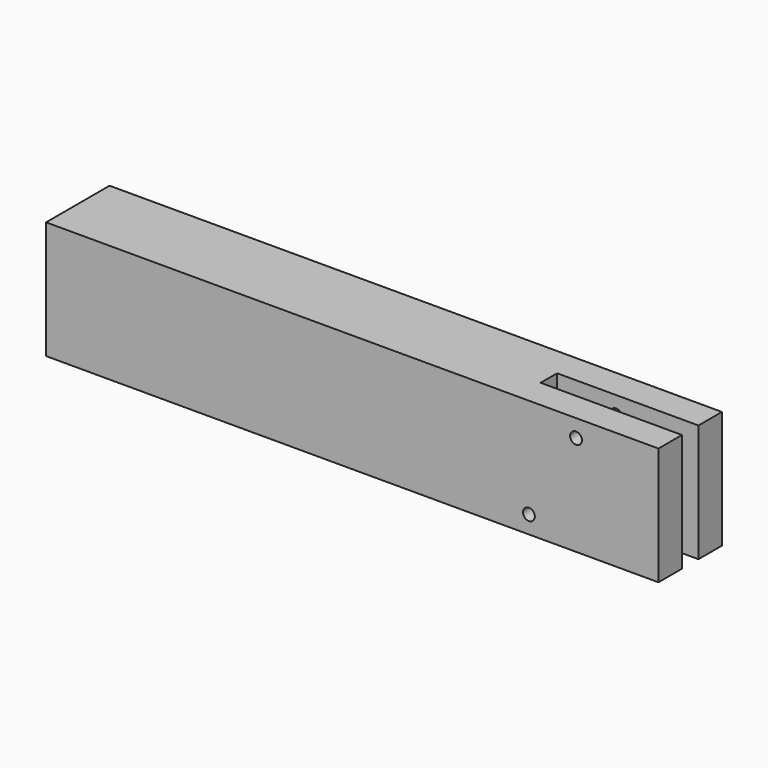
from build123d import *

# Parameters (mm, degrees)
F0_W     = 165.1
F0_H     = 31.75
F1_DEPTH = 21.3868
F2_W     = 38.1
F2_H     = 5.55625
F3_DEPTH = 31.75
F4_R     = 1.5875
F5_DEPTH = 21.3868


with BuildPart() as f1:
    # F0 (on Front) → F1 (new body)
    with BuildSketch(Plane.XZ):
        Rectangle(F0_W, F0_H)
    extrude(amount=F1_DEPTH)

    # F2 (on face) → F3 (cut, through all)
    with BuildSketch(Plane.XY.offset(15.875)):
        with Locations((63.5, -10.6934)):
            Rectangle(F2_W, F2_H)
    extrude(amount=-F3_DEPTH, mode=Mode.SUBTRACT)

    # F4 (on face) → F5 (cut, through all)
    with BuildSketch(Plane.XZ.offset(21.3868)):
        with Locations((60.325, 11.1125)):
            Circle(F4_R)
        with Locations((47.625, -11.1125)):
            Circle(F4_R)
    extrude(amount=-F5_DEPTH, mode=Mode.SUBTRACT)


solid = f1.part
